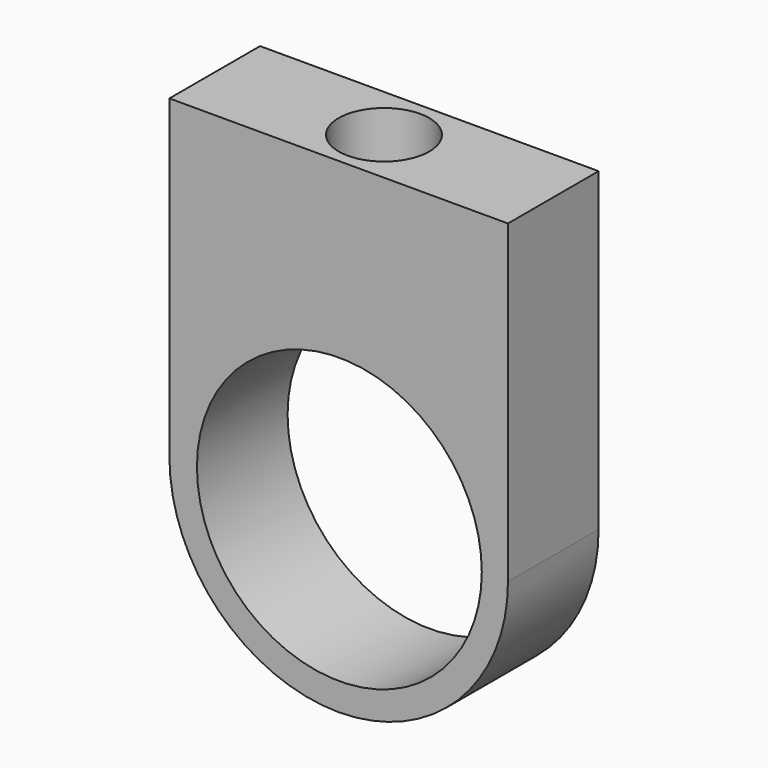
from build123d import *

# Parameters (mm, degrees)
F0_R     = 12.569468
F1_DEPTH = 10
F2_R     = 4
F3_DEPTH = 25


with BuildPart() as f1:
    # F0 (on Front) → F1 (new body)
    with BuildSketch(Plane.XZ):
        with BuildLine():
            Line((9.299427, -18.636342), (9.299427, 9.197386))
            Line((9.299427, 9.197386), (-20.579568, 9.197386))
            Line((-20.579568, 9.197386), (-20.579568, -18.636342))
            ThreePointArc((-20.579568, -18.636342), (-16.207539, -29.221531), (-5.64007, -33.63622))
            ThreePointArc((-5.64007, -33.63622), (4.927398, -29.221531), (9.299427, -18.636342))
        make_face()
        with Locations((-5.579568, -18.636342)):
            Circle(F0_R, mode=Mode.SUBTRACT)
    extrude(amount=F1_DEPTH)

    # F2 (on face) → F3 (cut)
    with BuildSketch(Plane.XY.offset(9.197386)):
        with Locations((-5.64007, -5)):
            Circle(F2_R)
    extrude(amount=-F3_DEPTH, mode=Mode.SUBTRACT)


solid = f1.part
